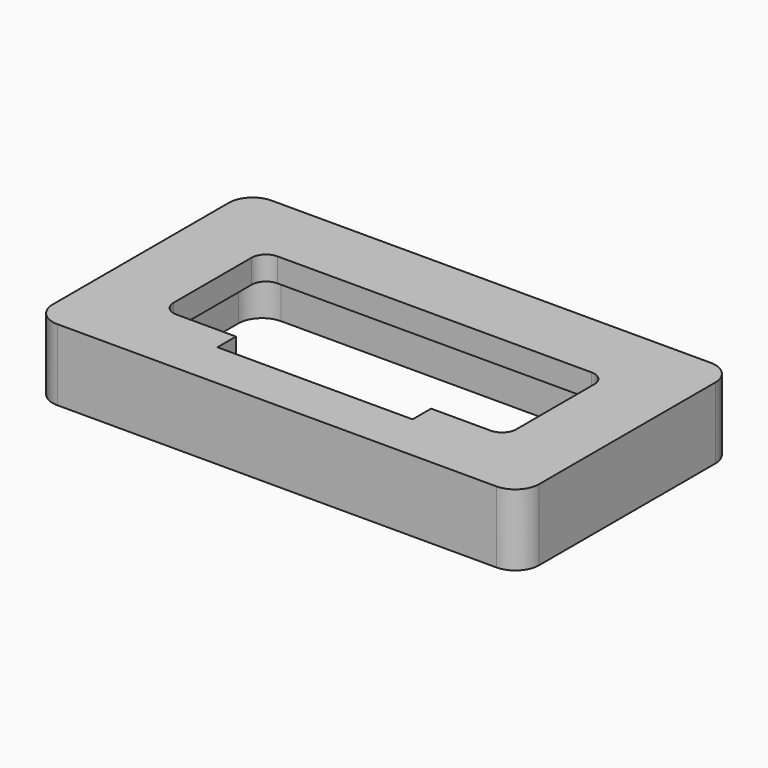
from build123d import *

# Parameters (mm, degrees)
F1_DEPTH = 2
F3_DEPTH = 1
F4_DEPTH = 1


with BuildPart() as f1:
    # F0 (on Top) → F1 (new body)
    with BuildSketch(Plane.XY):
        with BuildLine():
            ThreePointArc((10.22, 4.625), (9.9271067812, 5.3321067812), (9.22, 5.625))
            Line((9.22, 5.625), (-9.22, 5.625))
            ThreePointArc((-9.22, 5.625), (-9.9271067812, 5.3321067812), (-10.22, 4.625))
            Line((-10.22, 4.625), (-10.22, -4.625))
            ThreePointArc((-10.22, -4.625), (-9.9271067812, -5.3321067812), (-9.22, -5.625))
            Line((-9.22, -5.625), (9.22, -5.625))
            ThreePointArc((9.22, -5.625), (9.9271067812, -5.3321067812), (10.22, -4.625))
            Line((10.22, -4.625), (10.22, 4.625))
        make_face()
        with BuildLine():
            Line((-7.22, 3.625), (7.22, 3.625))
            ThreePointArc((7.22, 3.625), (7.9271067812, 3.3321067812), (8.22, 2.625))
            Line((8.22, 2.625), (8.22, -2.625))
            ThreePointArc((8.22, -2.625), (7.9271067812, -3.3321067812), (7.22, -3.625))
            Line((7.22, -3.625), (-7.22, -3.625))
            ThreePointArc((-7.22, -3.625), (-7.9271067812, -3.3321067812), (-8.22, -2.625))
            Line((-8.22, -2.625), (-8.22, 2.625))
            ThreePointArc((-8.22, 2.625), (-7.9271067812, 3.3321067812), (-7.22, 3.625))
        make_face(mode=Mode.SUBTRACT)
    extrude(amount=F1_DEPTH)

    # F2 (on face) → F3 (join)
    with BuildSketch(Plane.XY.offset(2)):
        with BuildLine():
            Line((7.22, 3.625), (-7.22, 3.625))
            ThreePointArc((-7.22, 3.625), (-7.9271067812, 3.3321067812), (-8.22, 2.625))
            Line((-8.22, 2.625), (-8.22, -2.625))
            ThreePointArc((-8.22, -2.625), (-7.9271067812, -3.3321067812), (-7.22, -3.625))
            Line((-7.22, -3.625), (-4.1, -3.625))
            Line((-4.1, -3.625), (-4.1, -2.65))
            Line((-4.1, -2.65), (-6.6, -2.65))
            ThreePointArc((-6.6, -2.65), (-7.0242640687, -2.4742640687), (-7.2, -2.05))
            Line((-7.2, -2.05), (-7.2, 2.05))
            ThreePointArc((-7.2, 2.05), (-7.0242640687, 2.4742640687), (-6.6, 2.65))
            Line((-6.6, 2.65), (6.6, 2.65))
            ThreePointArc((6.6, 2.65), (7.0242640687, 2.4742640687), (7.2, 2.05))
            Line((7.2, 2.05), (7.2, -2.05))
            ThreePointArc((7.2, -2.05), (7.0242640687, -2.4742640687), (6.6, -2.65))
            Line((6.6, -2.65), (4.1, -2.65))
            Line((4.1, -2.65), (4.1, -3.625))
            Line((4.1, -3.625), (7.22, -3.625))
            ThreePointArc((7.22, -3.625), (7.9271067812, -3.3321067812), (8.22, -2.625))
            Line((8.22, -2.625), (8.22, 2.625))
            ThreePointArc((8.22, 2.625), (7.9271067812, 3.3321067812), (7.22, 3.625))
        make_face()
    extrude(amount=F3_DEPTH)

    # F4 (add): a face of the model
    f4_faces = [f1.faces().sort_by_distance(p)[0] for p in [
        (9.9866855984, 0, 2),
    ]]
    extrude(f4_faces, amount=F4_DEPTH)


solid = f1.part
